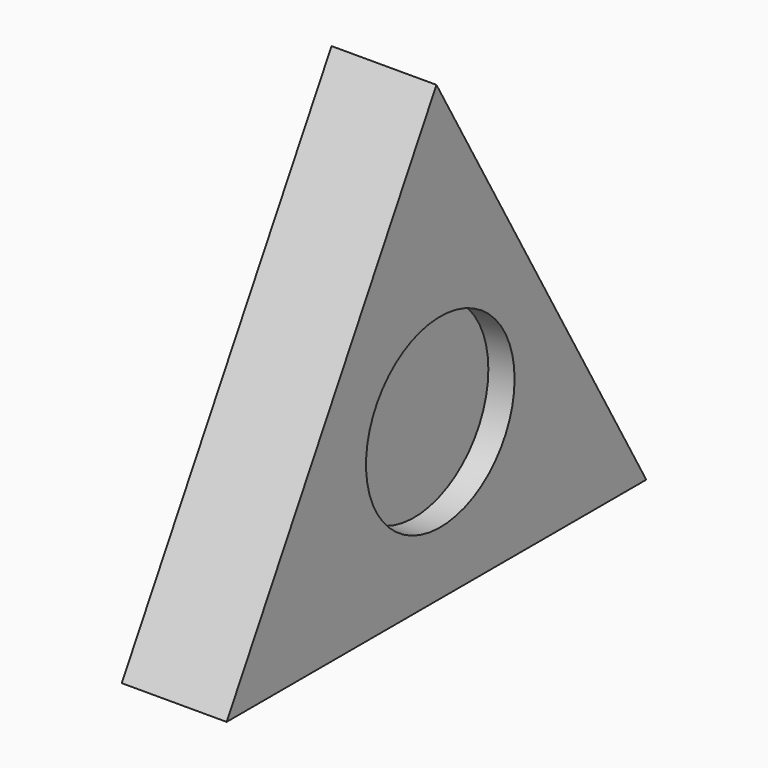
from build123d import *

# Parameters (mm, degrees)
F1_DEPTH = 5.08
F2_R     = 4.4958
F3_DEPTH = 1.27
F4_R     = 4.4958
F5_DEPTH = 1.27


with BuildPart() as f1:
    # F0 (on Right) → F1 (new body)
    with BuildSketch(Plane.YZ):
        Polygon((0, 0), (-12.7, 21.997045), (-25.4, 0), align=None)
    extrude(amount=F1_DEPTH)

    # F2 (on face) → F3 (cut)
    with BuildSketch(Plane.YZ.offset(5.08)):
        with Locations((-12.467312, 7.535188)):
            Circle(F2_R)
    extrude(amount=-F3_DEPTH, mode=Mode.SUBTRACT)

    # F4 (on face) → F5 (cut)
    with BuildSketch(Plane(origin=(0, 0, 0), x_dir=(0, -1, 0), z_dir=(-1, 0, 0))):
        with Locations((12.821567, 8.129397)):
            Circle(F4_R)
    extrude(amount=-F5_DEPTH, mode=Mode.SUBTRACT)


solid = f1.part
